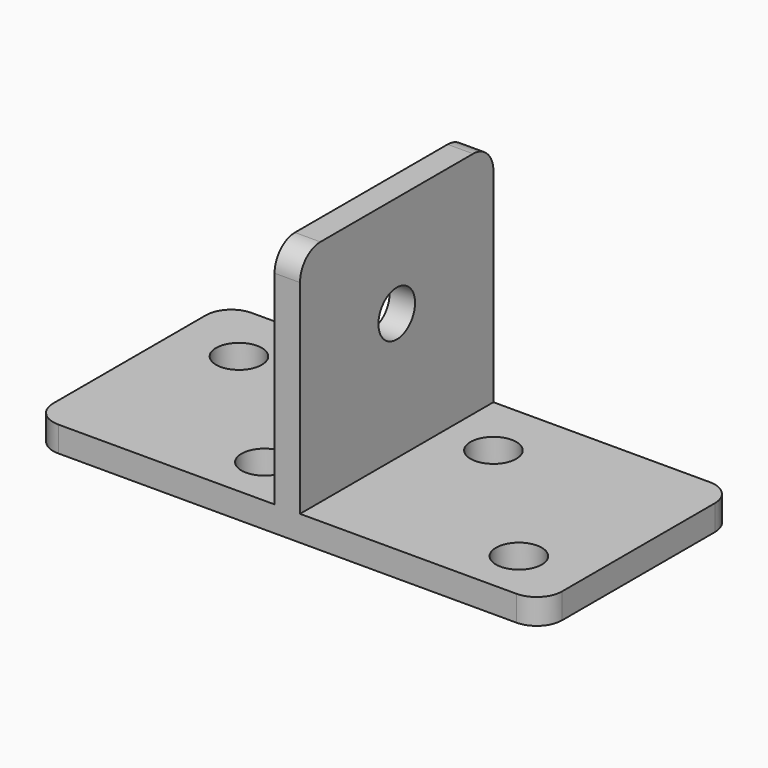
from build123d import *

# Parameters (mm, degrees)
F1_DEPTH = 47.5
F2_R     = 9
F3_DEPTH = 25
F4_R     = 9
F5_DEPTH = 25
F6_R     = 10


with BuildPart() as f1:
    # F0 (on Front) → F1 (new body, symmetric)
    with BuildSketch(Plane.XZ):
        Polygon((-100, 0), (0, 0), (100, 0), (100, 10), (5, 10), (5, 100), (0, 100), (-5, 100), (-5, 10), (-100, 10), align=None)
    extrude(amount=F1_DEPTH, both=True)

    # F2 (on face) → F3 (cut)
    with BuildSketch(Plane.XY.offset(10)):
        with Locations((75, -27.5)):
            Circle(F2_R)
        with Locations((25, 22.5)):
            Circle(F2_R)
        with Locations((-25, -27.5)):
            Circle(F2_R)
        with Locations((-75, 22.5)):
            Circle(F2_R)
    extrude(amount=-F3_DEPTH, mode=Mode.SUBTRACT)

    # F4 (on face) → F5 (cut)
    with BuildSketch(Plane(origin=(-5, 0, 0), x_dir=(0, -1, 0), z_dir=(-1, 0, 0))):
        with Locations((0, 60)):
            Circle(F4_R)
    extrude(amount=-F5_DEPTH, mode=Mode.SUBTRACT)

    # F6
    f6_edges = [f1.edges().sort_by_distance(p)[0] for p in [
        (100, -47.5, 5),
        (100, 47.5, 5),
        (0, 47.5, 100),
        (0, -47.5, 100),
        (-100, -47.5, 5),
        (-100, 47.5, 5),
    ]]
    fillet(f6_edges, radius=F6_R)


solid = f1.part
